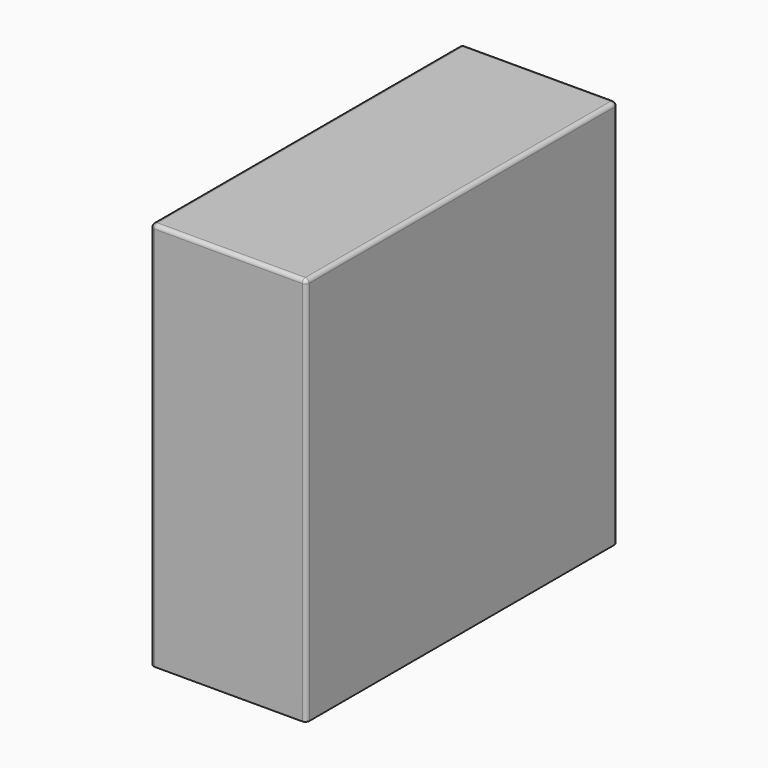
from build123d import *

# Parameters (mm, degrees)
F0_W     = 200
F0_H     = 500
F1_DEPTH = 500
F2_R     = 15
F3_DEPTH = 10
F4_R     = 5


with BuildPart() as f1:
    # F0 (on Top) → F1 (new body)
    with BuildSketch(Plane.XY):
        Rectangle(F0_W, F0_H)
    extrude(amount=F1_DEPTH)

    # F4
    f4_edges = [f1.edges().sort_by_distance(p)[0] for p in [
        (-100, 0, 500),
        (-100, -250, 250),
        (-100, 250, 250),
        (0, 250, 500),
        (100, 0, 500),
        (0, -250, 500),
        (100, -250, 250),
        (100, 250, 250),
    ]]
    fillet(f4_edges, radius=F4_R)


with BuildPart() as f3:
    # F2 (on face) → F3 (new body)
    with BuildSketch(Plane(origin=(0, 0, 0), x_dir=(1, 0, 0), z_dir=(0, 0, -1))):
        with Locations((-70, 220)):
            Circle(F2_R)
        with Locations((70, 220)):
            Circle(F2_R)
        with Locations((-70, -220)):
            Circle(F2_R)
        with Locations((70, -220)):
            Circle(F2_R)
    extrude(amount=F3_DEPTH)


solid = Compound([f1.part, f3.part])
